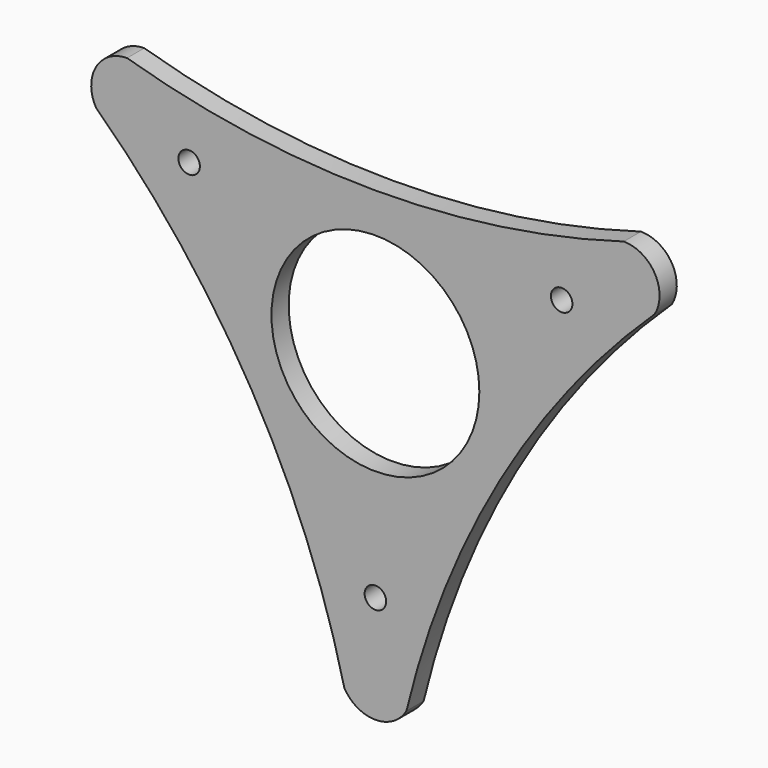
from build123d import *

# Parameters (mm, degrees)
F1_DEPTH = 3
F2_R     = 1.5
F2_R_2   = 14.5
F3_DEPTH = 3.001


with BuildPart() as f1:
    # F0 (on Front) → F1 (new body)
    with BuildSketch(Plane.XZ):
        with BuildLine():
            ThreePointArc((-38.971143, 17.5), (-17.320508, -10), (-4.330127, -42.5))
            ThreePointArc((-4.330127, -42.5), (0, -45), (4.330127, -42.5))
            ThreePointArc((4.330127, -42.5), (17.320508, -10), (38.971143, 17.5))
            ThreePointArc((38.971143, 17.5), (38.971143, 22.5), (34.641016, 25))
            ThreePointArc((34.641016, 25), (0, 20), (-34.641016, 25))
            ThreePointArc((-34.641016, 25), (-38.971143, 22.5), (-38.971143, 17.5))
        make_face()
    extrude(amount=F1_DEPTH)

    # F2 (on face) → F3 (cut, through all)
    with BuildSketch(Plane.XZ.offset(3)):
        with Locations((-25.980762, 15)):
            Circle(F2_R)
        Circle(F2_R_2)
        with Locations((25.980762, 15)):
            Circle(F2_R)
        with Locations((0, -30)):
            Circle(F2_R)
    extrude(amount=-F3_DEPTH, mode=Mode.SUBTRACT)


solid = f1.part
